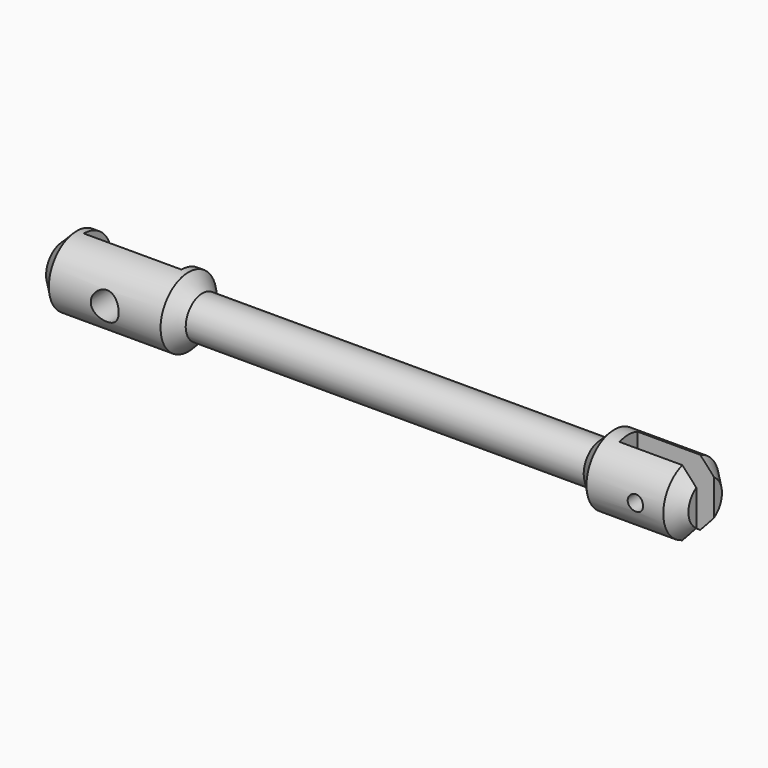
from build123d import *

# Parameters (mm, degrees)
F2_DEPTH = 12.7
F3_W     = 7
F3_H     = 4.492721
F3_W_2   = 5.5
F3_H_2   = 1.6
F4_DEPTH = 12.7


with BuildPart() as f1:
    # F0 (on Front) → F1 (revolve)
    with BuildSketch(Plane.XZ):
        with BuildLine():
            ThreePointArc((-1, 0), (0, 1), (1, 0))
            Line((1, 0), (37.45, 0))
            ThreePointArc((37.45, 0), (38, 0.55), (38.55, 0))
            Line((38.55, 0), (41, 0))
            Line((41, 0), (41, 1.5))
            Line((41, 1.5), (40, 2.5))
            Line((40, 2.5), (34.5, 2.5))
            Line((34.5, 2.5), (33.5, 1.5))
            Line((33.5, 1.5), (5, 1.5))
            Line((5, 1.5), (4, 2.5))
            Line((4, 2.5), (-4, 2.5))
            Line((-4, 2.5), (-5, 1.5))
            Line((-5, 1.5), (-5, 0))
            Line((-5, 0), (-1, 0))
        make_face()
        with BuildLine():
            ThreePointArc((-1, 0), (0, -1), (1, 0))
            Line((1, 0), (-1, 0))
        make_face()
        with BuildLine():
            Line((38.55, 0), (37.45, 0))
            ThreePointArc((37.45, 0), (38, -0.55), (38.55, 0))
        make_face()
    revolve(axis=Axis((18, 0, 0), (1, 0, 0)))

    # F0 (on Front) → F2 (cut, symmetric)
    with BuildSketch(Plane.XZ):
        with BuildLine():
            Line((-1, 0), (1, 0))
            ThreePointArc((1, 0), (0, 1), (-1, 0))
        make_face()
        with BuildLine():
            ThreePointArc((-1, 0), (0, -1), (1, 0))
            Line((1, 0), (-1, 0))
        make_face()
        with BuildLine():
            ThreePointArc((38.55, 0), (38, 0.55), (37.45, 0))
            Line((37.45, 0), (38.55, 0))
        make_face()
        with BuildLine():
            Line((38.55, 0), (37.45, 0))
            ThreePointArc((37.45, 0), (38, -0.55), (38.55, 0))
        make_face()
    extrude(amount=F2_DEPTH, both=True, mode=Mode.SUBTRACT)

    # F3 (on Top) → F4 (cut, symmetric)
    with BuildSketch(Plane.XY):
        with Locations((0, 2.24636)):
            Rectangle(F3_W, F3_H)
        with Locations((38.25, 0)):
            Rectangle(F3_W_2, F3_H_2)
    extrude(amount=F4_DEPTH, both=True, mode=Mode.SUBTRACT)


solid = f1.part
